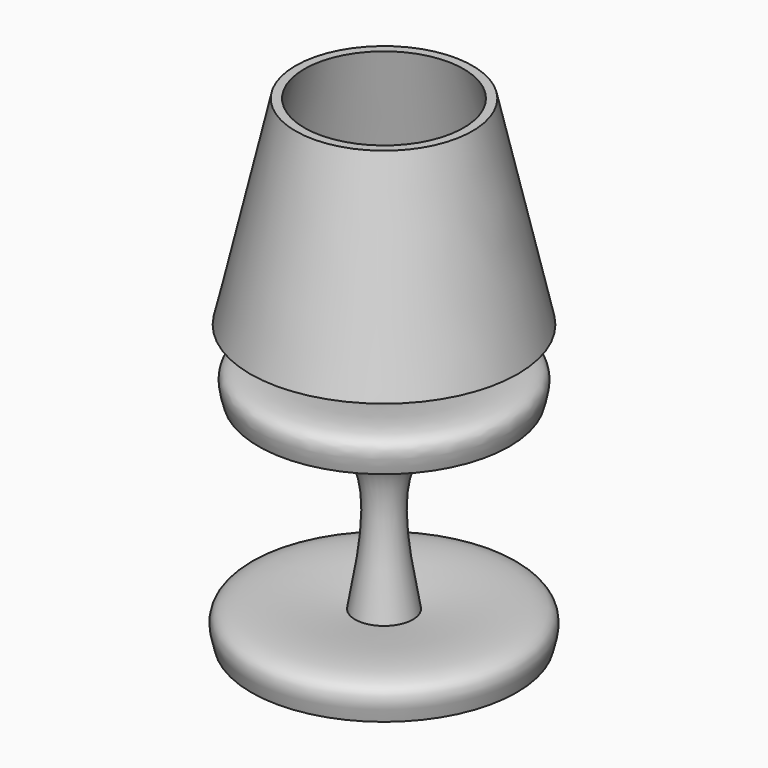
from build123d import *


with BuildPart() as f1:
    # F0 (on Front) → F1 (revolve)
    with BuildSketch(Plane.XZ):
        with BuildLine():
            Line((-38.1, -61.508895377), (0, -61.508895377))
            Line((0, -61.508895377), (0, 4.798006732))
            add(Edge.make_bspline(
                [(-36.049887538, 0), (-36.944901427, 3.1340381109), (-39.7541423684, 12.9710565994), (-16.1107167165, 8.1102072545), (0, 4.798006732)],
                knots=[0, 0, 0, 0, 0.3185963424, 1, 1, 1, 1], degree=3))
            add(Edge.make_bspline(
                [(-8.299253881, -52.7780689299), (-5.5216129063, -37.4868704098), (-0.28887447, -8.6801084975), (-24.6296681712, -2.7719780472), (-36.049887538, 0)],
                knots=[0, 0, 0, 0, 0.5308197626, 1, 1, 1, 1], degree=3))
            add(Edge.make_bspline(
                [(-38.1, -61.508895377), (-38.9974191644, -58.3160103919), (-41.6045155832, -49.0403459756), (-21.4899496862, -51.2977272669), (-8.299253881, -52.7780689299)],
                knots=[0, 0, 0, 0, 0.3442217012, 1, 1, 1, 1], degree=3))
        make_face()
    revolve(axis=Axis((0, 0, -28.3554443225), (0, 0, -1)))


with BuildPart() as f3:
    # F2 (on Front) → F3 (revolve)
    with BuildSketch(Plane.XZ):
        Polygon((-22.86, 76.2), (-25.4, 76.2), (-38.4109914303, 19.05), (-35.8709914303, 19.05), align=None)
    revolve(axis=Axis((0, 0, 38.1), (0, 0, 1)))


solid = Compound([f1.part, f3.part])
